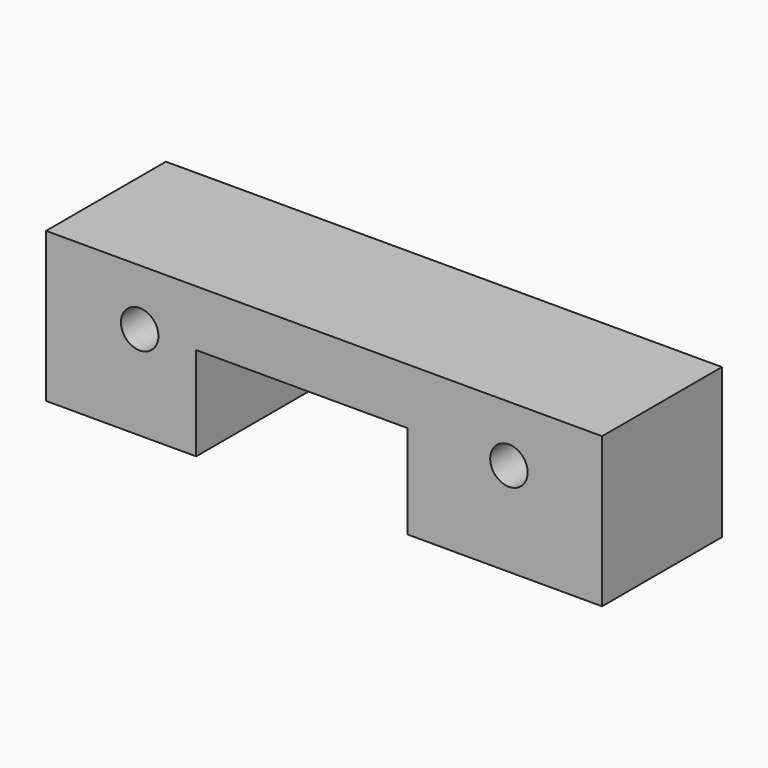
from build123d import *

# Parameters (mm, degrees)
F0_R     = 3.175
F1_DEPTH = 25.4


with BuildPart() as f1:
    # F0 (on Front) → F1 (new body)
    with BuildSketch(Plane.XZ):
        Polygon((94.2848, 0), (0, 0), (0, -25.4), (25.4508, -25.4), (25.4508, -9.525), (61.2648, -9.525), (61.2648, -25.4), (94.2848, -25.4), align=None)
        with Locations((15.875, -9.525)):
            Circle(F0_R, mode=Mode.SUBTRACT)
        with Locations((78.486, -9.525)):
            Circle(F0_R, mode=Mode.SUBTRACT)
    extrude(amount=F1_DEPTH)


solid = f1.part
